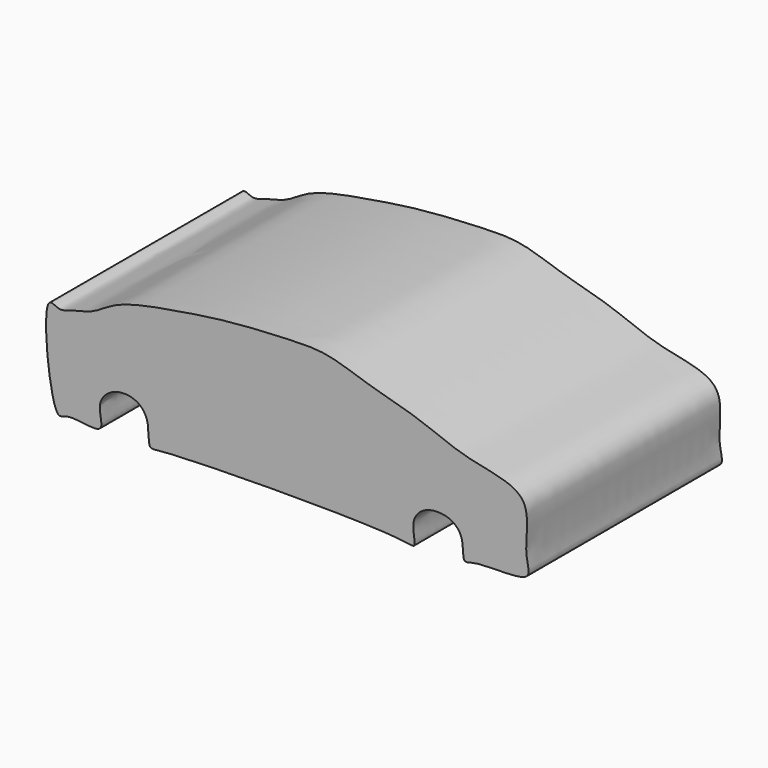
from build123d import *

# Parameters (mm, degrees)
F1_DEPTH = 60.706
F2_R     = 9.5843147112
F2_R_2   = 9.5891792918
F3_DEPTH = 2.794


with BuildPart() as f1:
    # F0 (on Front) → F1 (new body)
    with BuildSketch(Plane.XZ):
        with BuildLine():
            add(Edge.make_bspline(
                [(-64.1301572323, -14.0475574881), (-62.5598596365, -13.5540078116), (-58.4741468845, -12.9275691465), (-52.9463090718, -8.2501313477), (-38.6306806156, -5.6697864796), (-24.4562074753, -3.423467148), (-9.8994981932, -2.7286308601), (0.0736639804, -2.3796907816), (10.4335886406, -6.4371486488), (23.3286818933, -9.3879679322), (35.0103249669, -15.0644731476), (52.5590954093, -16.5189375629), (48.8787452056, -30.5679374927), (52.6976608795, -37.5619370986), (37.6118168416, -36.0970593164), (33.8413526385, -38.3998570758), (34.5201029361, -32.460930148), (31.2210766761, -28.5739971942), (24.3569856335, -28.4753604735), (20.7638638001, -32.8397068406), (22.7936731867, -38.9752869775), (17.4361586607, -36.6078709037), (-40.6347612648, -37.0963591946), (-45.1547922168, -38.5893310666), (-44.4992419114, -31.9016071691), (-47.9165148344, -28.0396944204), (-54.054572251, -27.8986307035), (-58.3483537486, -32.4880088188), (-54.835712509, -39.9282190432), (-65.2738040065, -36.7313856352), (-69.1212601133, -41.1636224882), (-72.3186374294, -10.9454985509), (-67.2833014855, -15.398034881), (-65.3774742978, -14.4395933263), (-64.1301572323, -14.0475574881)],
                knots=[0, 0, 0, 0, 0.0254176417, 0.0542653986, 0.0953623931, 0.1378433391, 0.1792807902, 0.2134459628, 0.2493919189, 0.2888574898, 0.3296053567, 0.3705046341, 0.4077840436, 0.4319365801, 0.4706911602, 0.4898329843, 0.512540007, 0.5364043781, 0.5634077246, 0.5878612021, 0.6112727386, 0.6321894408, 0.7165073756, 0.7365748457, 0.7615563996, 0.7854207802, 0.8110384083, 0.8365165313, 0.8606690678, 0.8914576307, 0.9095720108, 0.9626655456, 0.9798102867, 1, 1, 1, 1], degree=3))
        make_face()
    extrude(amount=F1_DEPTH)

    # F2 (on Front) → F3 (join)
    with BuildSketch(Plane.XZ):
        with Locations((-51.3140670955, -33.8973663747)):
            Circle(F2_R)
        with Locations((28.0851703137, -33.5919857025)):
            Circle(F2_R_2)
    extrude(amount=-F3_DEPTH)


solid = f1.part
